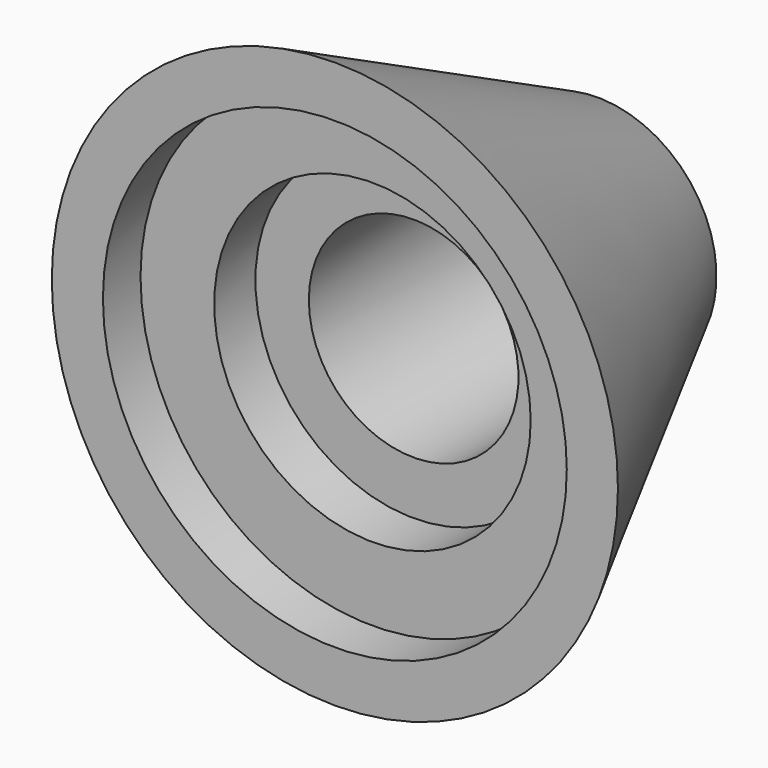
from build123d import *

# Parameters (mm, degrees)
F2_R     = 4.702761
F3_DEPTH = 25.4
F5_R     = 7.100164
F6_DEPTH = 4.4196
F7_R     = 10.405199
F8_DEPTH = 2.1082


with BuildPart() as f1:
    # F0 (on Top) → F1 (revolve)
    with BuildSketch(Plane.XY):
        Polygon((0, -10.469328), (0, 4.262672), (-5.334, 4.262672), (-12.7, -10.469328), align=None)
    revolve(axis=Axis((0, 2.230672, 0), (0, -1, 0)))

    # F2 (on face) → F3 (cut)
    with BuildSketch(Plane(origin=(0, 4.262672, 0), x_dir=(-1, 0, 0), z_dir=(0, 1, 0))):
        Circle(F2_R)
    extrude(amount=-F3_DEPTH, mode=Mode.SUBTRACT)

    # F5 (on face) → F6 (cut)
    with BuildSketch(Plane.XZ.offset(10.469328)):
        Circle(F5_R)
    extrude(amount=-F6_DEPTH, mode=Mode.SUBTRACT)

    # F7 (on face) → F8 (cut)
    with BuildSketch(Plane.XZ.offset(10.469328)):
        Circle(F7_R)
    extrude(amount=-F8_DEPTH, mode=Mode.SUBTRACT)


solid = f1.part
